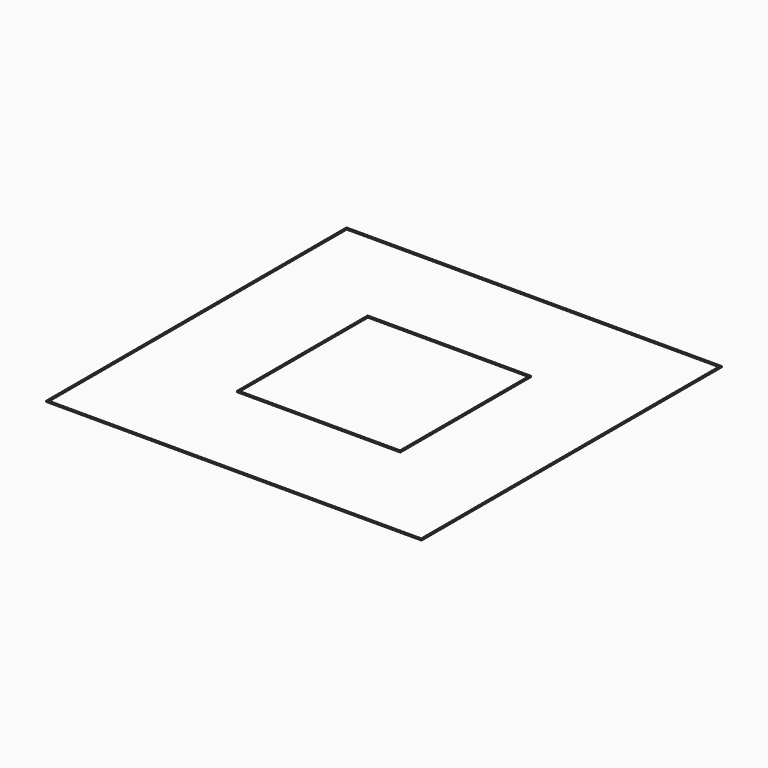
from build123d import *

# Parameters (mm, degrees)
F0_W     = 140
F0_H     = 140
F0_W_2   = 139
F0_H_2   = 139
F0_W_3   = 61
F0_H_3   = 61
F0_W_4   = 60
F0_H_4   = 60
F1_DEPTH = 0.4


with BuildPart() as f1:
    # F0 (on Top) → F1 (new body)
    with BuildSketch(Plane.XY):
        Rectangle(F0_W, F0_H)
        Rectangle(F0_W_2, F0_H_2, mode=Mode.SUBTRACT)
        Rectangle(F0_W_3, F0_H_3)
        Rectangle(F0_W_4, F0_H_4, mode=Mode.SUBTRACT)
    extrude(amount=F1_DEPTH)


solid = f1.part
